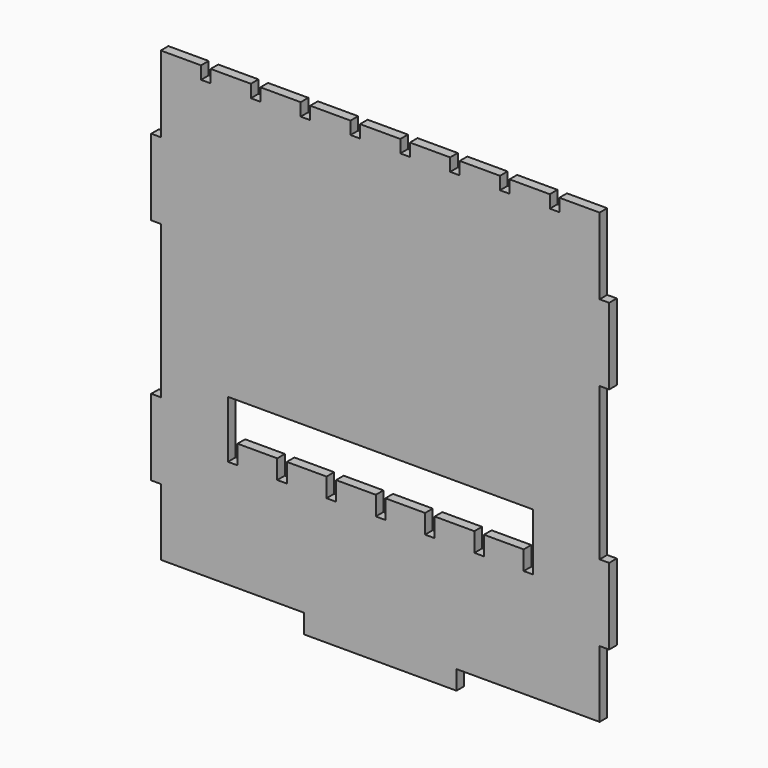
from build123d import *

# Parameters (mm, degrees)
F0_W     = 19.05
F0_H     = 152.4
F0_W_2   = 304.8
F0_H_2   = 38.1
F1_DEPTH = 19.05


with BuildPart() as f1:
    # F0 (on Front) → F1 (new body)
    with BuildSketch(Plane.XZ):
        Polygon((-438.15, -314.325), (-438.15, -447.675), (-152.4, -447.675), (152.4, -447.675), (438.15, -447.675), (438.15, -314.325), (438.15, -161.925), (438.15, 142.875), (438.15, 295.275), (438.15, 447.675), (357.716667, 447.675), (357.716667, 422.275), (338.666667, 422.275), (338.666667, 447.675), (258.233333, 447.675), (258.233333, 422.275), (239.183333, 422.275), (239.183333, 447.675), (158.75, 447.675), (158.75, 422.275), (139.7, 422.275), (139.7, 447.675), (59.266667, 447.675), (59.266667, 422.275), (40.216667, 422.275), (40.216667, 447.675), (-40.216667, 447.675), (-40.216667, 422.275), (-59.266667, 422.275), (-59.266667, 447.675), (-139.7, 447.675), (-139.7, 422.275), (-158.75, 422.275), (-158.75, 447.675), (-239.183333, 447.675), (-239.183333, 422.275), (-258.233333, 422.275), (-258.233333, 447.675), (-338.666667, 447.675), (-338.666667, 422.275), (-357.716667, 422.275), (-357.716667, 447.675), (-438.15, 447.675), (-438.15, 295.275), (-438.15, 142.875), (-438.15, -161.925), align=None)
        Polygon((-304.00625, -193.675), (-304.00625, -117.475), (305.59375, -117.475), (305.59375, -193.675), (305.59375, -231.775), (286.54375, -231.775), (286.54375, -193.675), (207.16875, -193.675), (207.16875, -231.775), (188.11875, -231.775), (188.11875, -193.675), (108.74375, -193.675), (108.74375, -231.775), (89.69375, -231.775), (89.69375, -193.675), (10.31875, -193.675), (10.31875, -231.775), (-8.73125, -231.775), (-8.73125, -193.675), (-88.10625, -193.675), (-88.10625, -231.775), (-107.15625, -231.775), (-107.15625, -193.675), (-186.53125, -193.675), (-186.53125, -231.775), (-205.58125, -231.775), (-205.58125, -193.675), (-284.95625, -193.675), (-284.95625, -231.775), (-304.00625, -231.775), align=None, mode=Mode.SUBTRACT)
        with Locations((-447.675, 219.075)):
            Rectangle(F0_W, F0_H)
        with Locations((-447.675, -238.125)):
            Rectangle(F0_W, F0_H)
        with Locations((0, -466.725)):
            Rectangle(F0_W_2, F0_H_2)
        with Locations((0, -466.725)):
            Rectangle(F0_W_2, F0_H_2)
        with Locations((447.675, -238.125)):
            Rectangle(F0_W, F0_H)
        with Locations((447.675, 219.075)):
            Rectangle(F0_W, F0_H)
    extrude(amount=F1_DEPTH)


solid = f1.part
